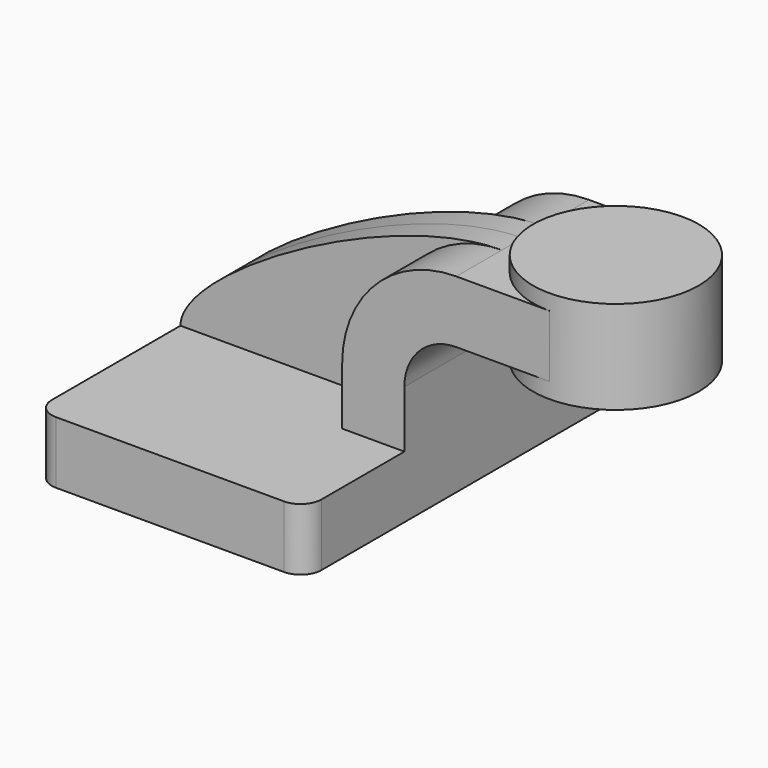
from build123d import *

# Parameters (mm, degrees)
F1_DEPTH = 63.5
F0_W     = 25.4
F0_H     = 19.05
F2_DEPTH = 25.4
F3_DEPTH = 7.9375
F5_R     = 6.35


with BuildPart() as f1:
    # F0 (on Front) → F1 (new body, symmetric)
    with BuildSketch(Plane.XZ):
        Polygon((-41.275, -9.525), (41.275, -9.525), (41.275, 9.525), (22.225, 9.525), (-41.275, 9.525), align=None)
    extrude(amount=F1_DEPTH, both=True)

    # F0 (on Front) → F2 (join, symmetric)
    with BuildSketch(Plane.XZ):
        with BuildLine():
            Line((22.225, 9.525), (41.275, 9.525))
            Line((41.275, 9.525), (41.275, 27.0002))
            ThreePointArc((41.275, 27.0002), (45.9246798487, 38.2255201513), (57.15, 42.8752))
            Line((57.15, 42.8752), (60.325, 42.8752))
            Line((60.325, 42.8752), (60.325, 61.9252))
            Line((60.325, 61.9252), (57.15, 61.9252))
            ThreePointArc((57.15, 61.9252), (32.4542956671, 51.6959043329), (22.225, 27.0002))
            Line((22.225, 27.0002), (22.225, 9.525))
        make_face()
        with Locations((73.025, 52.4002)):
            Rectangle(F0_W, F0_H)
    extrude(amount=F2_DEPTH, both=True)

    # F0 (on Front) → F3 (join, symmetric)
    with BuildSketch(Plane.XZ):
        with BuildLine():
            add(Edge.make_bspline(
                [(-41.275, 9.525), (-41.1268435419, 25.7026944309), (22.3007723689, 61.976660043), (57.15, 61.9252)],
                knots=[0, 0, 0, 0, 111.5045361635, 111.5045361635, 111.5045361635, 111.5045361635], degree=3))
            Line((-41.275, 9.525), (22.225, 9.525))
            Line((22.225, 9.525), (22.225, 27.0002))
            ThreePointArc((22.225, 27.0002), (32.4542956671, 51.6959043329), (57.15, 61.9252))
        make_face()
    extrude(amount=F3_DEPTH, both=True)

    # F5
    f5_edges = [f1.edges().sort_by_distance(p)[0] for p in [
        (41.275, -63.5, 0),
        (41.275, 63.5, 0),
        (-41.275, 63.5, 0),
        (-41.275, -63.5, 0),
    ]]
    fillet(f5_edges, radius=F5_R)


with BuildPart() as f4:
    # F0 (on Front) → F4 (revolve)
    with BuildSketch(Plane.XZ):
        Polygon((85.725, 66.675), (85.725, 61.9252), (85.725, 42.8752), (85.725, 38.1), (111.125, 38.1), (111.125, 66.675), align=None)
    revolve(axis=Axis((85.725, 0, 52.3875), (0, 0, 1)))


solid = Compound([f1.part, f4.part])
